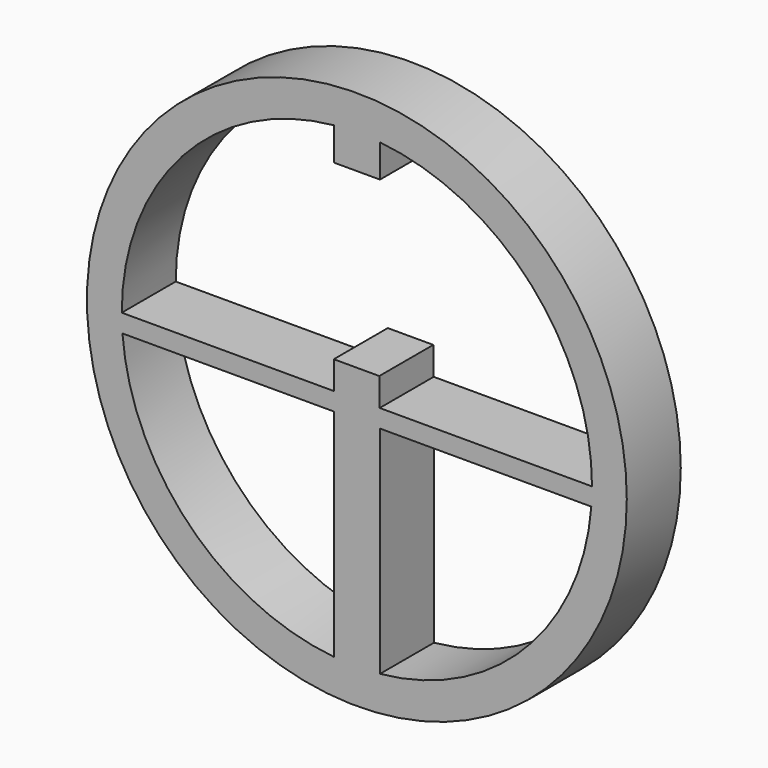
from build123d import *

# Parameters (mm, degrees)
F0_R     = 12.7
F0_W     = 0.5204633457
F0_H     = 0.8472021806
F1_DEPTH = 3.175


with BuildPart() as f1:
    # F0 (on Front) → F1 (new body)
    with BuildSketch(Plane.XZ):
        Circle(F0_R)
        with BuildLine():
            ThreePointArc((1.0870288825, 11.0088521585), (8.1976092353, 7.4280320722), (11.0623893278, 0))
            ThreePointArc((11.0623893278, 0), (11.054264149, -0.4239124484), (11.0299005483, -0.8472021806))
            ThreePointArc((11.0299005483, -0.8472021806), (7.9069448762, -7.7367099185), (1.0870288825, -11.0088521585))
            ThreePointArc((1.0870288825, -11.0088521585), (0.8155191196, -11.0322883485), (0.5435144412, -11.0490293552))
            ThreePointArc((0.5435144412, -11.0490293552), (-0.0115400824, -11.0623833086), (-0.5665655367, -11.0478713394))
            ThreePointArc((-0.5665655367, -11.0478713394), (-0.8270273574, -11.0314316111), (-1.0870288825, -11.0088521585))
            ThreePointArc((-1.0870288825, -11.0088521585), (-7.9069448762, -7.7367099185), (-11.0299005483, -0.8472021806))
            ThreePointArc((-11.0299005483, -0.8472021806), (-11.054264149, -0.4239124484), (-11.0623893278, 0))
            ThreePointArc((-11.0623893278, 0), (-8.1976092353, 7.4280320722), (-1.0870288825, 11.0088521585))
            ThreePointArc((-1.0870288825, 11.0088521585), (0, 11.0623893278), (1.0870288825, 11.0088521585))
        make_face(mode=Mode.SUBTRACT)
        with BuildLine():
            Line((1.0870288825, 9.4629311934), (1.0870288825, 11.0088521585))
            ThreePointArc((1.0870288825, 11.0088521585), (0, 11.0623893278), (-1.0870288825, 11.0088521585))
            Line((-1.0870288825, 11.0088521585), (-1.0870288825, 9.4629311934))
            Line((-1.0870288825, 9.4629311934), (0, 9.4629311934))
            Line((0, 9.4629311934), (1.0870288825, 9.4629311934))
        make_face()
        with BuildLine():
            ThreePointArc((11.0299005483, -0.8472021806), (11.054264149, -0.4239124484), (11.0623893278, 0))
            Line((11.0623893278, 0), (1.0741415377, 0))
            Line((1.0741415377, 0), (1.0870288825, -0.8472021806))
            Line((1.0870288825, -0.8472021806), (11.0299005483, -0.8472021806))
        make_face()
        with BuildLine():
            Line((-1.0870288825, 0), (-11.0623893278, 0))
            ThreePointArc((-11.0623893278, 0), (-11.054264149, -0.4239124484), (-11.0299005483, -0.8472021806))
            Line((-11.0299005483, -0.8472021806), (-1.0870288825, -0.8472021806))
            Line((-1.0870288825, -0.8472021806), (-1.0870288825, 0))
        make_face()
        Polygon((-1.0870288825, 0), (-0.5665655367, 0), (-0.5665655367, 0.8562274743), (-0.5665655367, 1.3171146857), (-1.0870288825, 1.3171146857), align=None)
        Polygon((0.5435144412, 0), (1.0741415377, 0), (1.0541060474, 1.3171146857), (0.5435144412, 1.3171146857), (0.5435144412, 0.8562274743), align=None)
        Polygon((-0.5665655367, 0), (0.5435144412, 0), (0.5435144412, 0.8562274743), (0.5435144412, 1.3171146857), (-0.5665655367, 1.3171146857), (-0.5665655367, 0.8562274743), align=None)
        Polygon((0.5435144412, -0.8472021806), (0.5435144412, 0), (-0.5665655367, 0), (-0.5665655367, -0.8472021806), (0, -0.8472021806), align=None)
        with Locations((-0.8267972096, -0.4236010903)):
            Rectangle(F0_W, F0_H)
        Polygon((1.0870288825, -0.8472021806), (1.0741415377, 0), (0.5435144412, 0), (0.5435144412, -0.8472021806), align=None)
        with BuildLine():
            ThreePointArc((-1.0870288825, -11.0088521585), (-0.8270273574, -11.0314316111), (-0.5665655367, -11.0478713394))
            Line((-0.5665655367, -11.0478713394), (-0.5665655367, -0.8472021806))
            Line((-0.5665655367, -0.8472021806), (-1.0870288825, -0.8472021806))
            Line((-1.0870288825, -0.8472021806), (-1.0870288825, -11.0088521585))
        make_face()
        with BuildLine():
            ThreePointArc((-0.5665655367, -11.0478713394), (-0.0115400824, -11.0623833086), (0.5435144412, -11.0490293552))
            Line((0.5435144412, -11.0490293552), (0.5435144412, -0.8472021806))
            Line((0.5435144412, -0.8472021806), (0, -0.8472021806))
            Line((0, -0.8472021806), (-0.5665655367, -0.8472021806))
            Line((-0.5665655367, -0.8472021806), (-0.5665655367, -11.0478713394))
        make_face()
        with BuildLine():
            ThreePointArc((0.5435144412, -11.0490293552), (0.8155191196, -11.0322883485), (1.0870288825, -11.0088521585))
            Line((1.0870288825, -11.0088521585), (1.0870288825, -0.8472021806))
            Line((1.0870288825, -0.8472021806), (0.5435144412, -0.8472021806))
            Line((0.5435144412, -0.8472021806), (0.5435144412, -11.0490293552))
        make_face()
    extrude(amount=F1_DEPTH)


solid = f1.part
